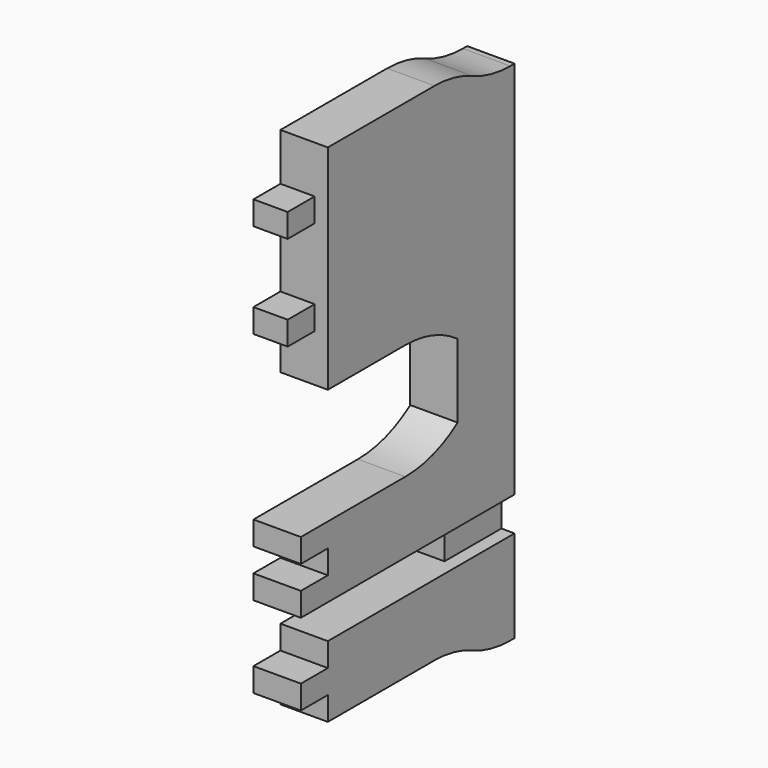
from build123d import *

# Parameters (mm, degrees)
PAD_DEPTH       = 18
SKETCH007_W     = 12.8
SKETCH007_H     = 45
POCKET002_DEPTH = 5
SKETCH010_W     = 27
SKETCH010_H     = 13
POCKET005_DEPTH = 5


with BuildPart() as part:
    # Clone2D → Pad (new body)
    with BuildSketch(Plane.YZ):
        with BuildLine():
            ThreePointArc((75, 196), (83.780456, 193.01205), (93, 192))
            Line((93, 192), (95, 192))
            Line((95, 192), (95, 0))
            Line((95, 0), (93, 0))
            ThreePointArc((93, 0), (83.780456, 1.01205), (75, 4))
            ThreePointArc((75, 4), (66.219544, 6.98795), (57, 8))
            Line((57, 8), (6.4, 8))
            Line((6.4, 8), (6.4, 17))
            Line((6.4, 17), (-6.4, 17))
            Line((-6.4, 17), (-6.4, 26))
            Line((-6.4, 26), (6.4, 26))
            Line((6.4, 26), (6.4, 35))
            Line((6.4, 35), (68, 35))
            Line((68, 35), (68, 48))
            Line((68, 48), (-6.4, 48))
            Line((-6.4, 48), (-6.4, 57))
            Line((-6.4, 57), (6.4, 57))
            Line((6.4, 57), (6.4, 66))
            Line((6.4, 66), (-6.4, 66))
            Line((-6.4, 66), (-6.4, 75))
            Line((-6.4, 75), (43.180653, 75))
            ThreePointArc((43.180653, 75), (56.219058, 77.049413), (68, 83))
            Line((68, 83), (68, 111))
            ThreePointArc((68, 111), (56.219058, 116.950587), (43.180653, 119))
            Line((43.180653, 119), (6.4, 119))
            Line((6.4, 119), (6.4, 137))
            Line((6.4, 137), (-6.4, 137))
            Line((-6.4, 137), (-6.4, 146))
            Line((-6.4, 146), (6.4, 146))
            Line((6.4, 146), (6.4, 173))
            Line((6.4, 173), (-6.4, 173))
            Line((-6.4, 173), (-6.4, 182))
            Line((-6.4, 182), (6.4, 182))
            Line((6.4, 182), (6.4, 200))
            Line((6.4, 200), (57, 200))
            ThreePointArc((57, 200), (66.219544, 198.98795), (75, 196))
        make_face()
    extrude(amount=PAD_DEPTH)

    # Sketch007 (on Face38 of Pad) → Pocket002 (cut)
    with BuildSketch(Plane.YZ.offset(18)):
        with Locations((0, 159.5)):
            Rectangle(SKETCH007_W, SKETCH007_H)
    extrude(amount=-POCKET002_DEPTH, mode=Mode.SUBTRACT)

    # Sketch010 (on Face5 of Pocket002) → Pocket005 (cut)
    with BuildSketch(Plane.YZ.offset(18)):
        with Locations((81.5, 41.5)):
            Rectangle(SKETCH010_W, SKETCH010_H)
    extrude(amount=-POCKET005_DEPTH, mode=Mode.SUBTRACT)


solid = part.part
